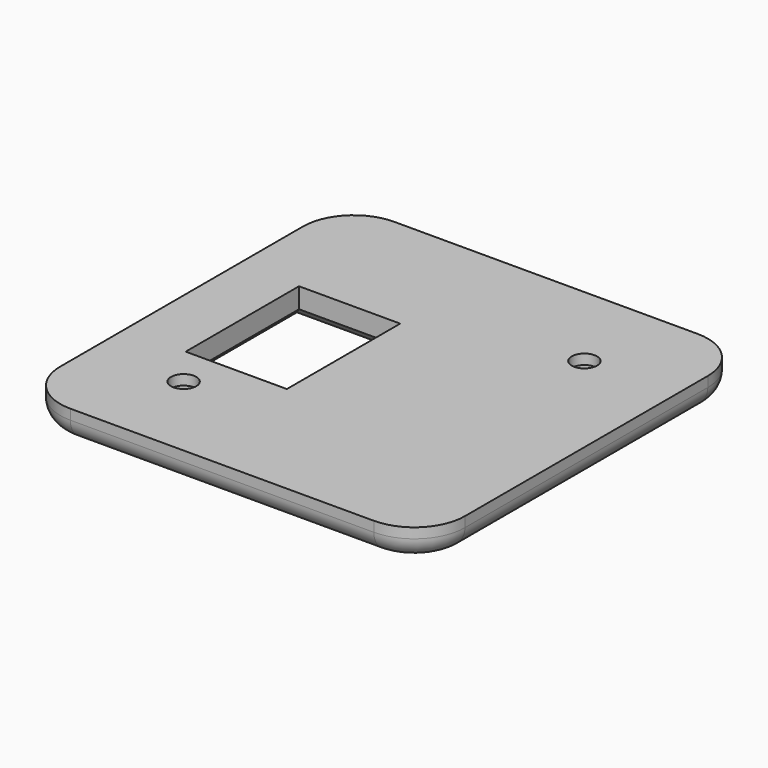
from build123d import *

# Parameters (mm, degrees)
SKETCH_W        = 40
SKETCH_H        = 40
PAD_DEPTH       = 3
SKETCH001_R     = 2.5
POCKET_DEPTH    = 2
SKETCH002_R     = 1.25
POCKET001_DEPTH = 1
FILLET_R        = 5
SKETCH003_W     = 10
SKETCH003_H     = 14
POCKET002_DEPTH = 3
CHAMFER_SIZE    = 1
FILLET002_R     = 2


with BuildPart() as part:
    # Sketch → Pad (new body)
    with BuildSketch(Plane.XY):
        Rectangle(SKETCH_W, SKETCH_H)
    extrude(amount=PAD_DEPTH)

    # Sketch001 (on Face5 of Pad) → Pocket (cut)
    with BuildSketch(Plane(origin=(0, 0, 0), x_dir=(1, 0, 0), z_dir=(0, 0, -1))):
        with Locations((-11, 11)):
            Circle(SKETCH001_R)
        with Locations((11, -11)):
            Circle(SKETCH001_R)
    extrude(amount=-POCKET_DEPTH, mode=Mode.SUBTRACT)

    # Sketch002 (on Face9 of Pocket) → Pocket001 (cut)
    with BuildSketch(Plane(origin=(0, 0, 2), x_dir=(1, 0, 0), z_dir=(0, 0, -1))):
        with Locations((-11, 11)):
            Circle(SKETCH002_R)
        with Locations((11, -11)):
            Circle(SKETCH002_R)
    extrude(amount=-POCKET001_DEPTH, mode=Mode.SUBTRACT)

    # Fillet
    fillet_edges = [part.edges().sort_by_distance(p)[0] for p in [
        (-20, -20, 1.5),
        (-20, 20, 1.5),
        (20, 20, 1.5),
        (20, -20, 1.5),
    ]]
    fillet(fillet_edges, radius=FILLET_R)

    # Sketch003 (on Face2 of Fillet) → Pocket002 (cut)
    with BuildSketch(Plane(origin=(0, 0, 0), x_dir=(1, 0, 0), z_dir=(0, 0, -1))):
        with Locations((-9, 0)):
            Rectangle(SKETCH003_W, SKETCH003_H)
    extrude(amount=-POCKET002_DEPTH, mode=Mode.SUBTRACT)

    # Chamfer
    chamfer_edges = [part.edges().sort_by_distance(p)[0] for p in [
        (-9, -7, 0),
        (-14, 0, 0),
        (-9, 7, 0),
        (-4, 0, 0),
    ]]
    chamfer(chamfer_edges, length=CHAMFER_SIZE)

    # Fillet002
    fillet002_edges = [part.edges().sort_by_distance(p)[0] for p in [
        (-18.535534, -18.535534, 0),
        (-20, 0, 0),
        (0, -20, 0),
        (18.535534, -18.535534, 0),
        (20, 0, 0),
        (18.535534, 18.535534, 0),
        (0, 20, 0),
        (-18.535534, 18.535534, 0),
    ]]
    fillet(fillet002_edges, radius=FILLET002_R)


solid = part.part
